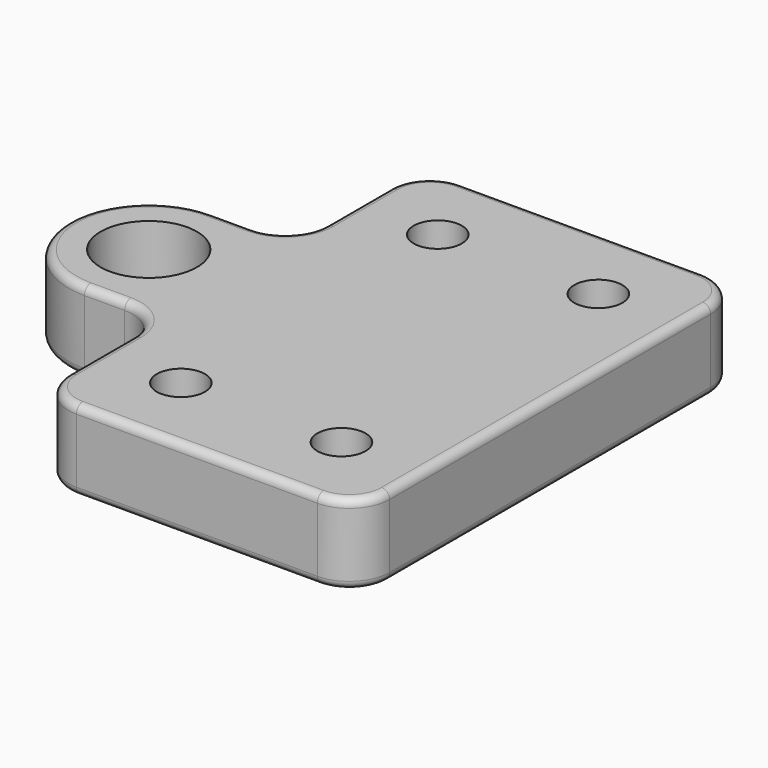
from build123d import *

# Parameters (mm, degrees)
F1_DEPTH = 10
F2_R     = 5
F4_D     = 6
F6_D     = 12
F7_R     = 1


with BuildPart() as f1:
    # F0 (on Top) → F1 (new body)
    with BuildSketch(Plane.XY):
        with BuildLine():
            Line((20, 30), (-20, 30))
            Line((-20, 30), (-20, 10))
            Line((-20, 10), (-30, 10))
            ThreePointArc((-30, 10), (-40, 0), (-30, -10))
            Line((-30, -10), (-20, -10))
            Line((-20, -10), (-20, -30))
            Line((-20, -30), (20, -30))
            Line((20, -30), (20, 30))
        make_face()
    extrude(amount=F1_DEPTH)

    # F2
    f2_edges = [f1.edges().sort_by_distance(p)[0] for p in [
        (-20, 30, 5),
        (-20, -30, 5),
        (20, -30, 5),
        (20, 30, 5),
        (-20, -10, 5),
        (-20, 10, 5),
    ]]
    fillet(f2_edges, radius=F2_R)

    # F4 (through all)
    with Locations(Plane.XY.offset(10)):
        with Locations((-10, 20), (10, 20), (10, -20), (-10, -20)):
            Hole(F4_D / 2)

    # F6 (through all)
    with Locations(Plane.XY.offset(10)):
        with Locations((-30, 0)):
            Hole(F6_D / 2)

    # F7
    f7_edges = [f1.edges().sort_by_distance(p)[0] for p in [
        (0, 30, 0),
        (0, 30, 10),
    ]]
    fillet(f7_edges, radius=F7_R)


solid = f1.part
